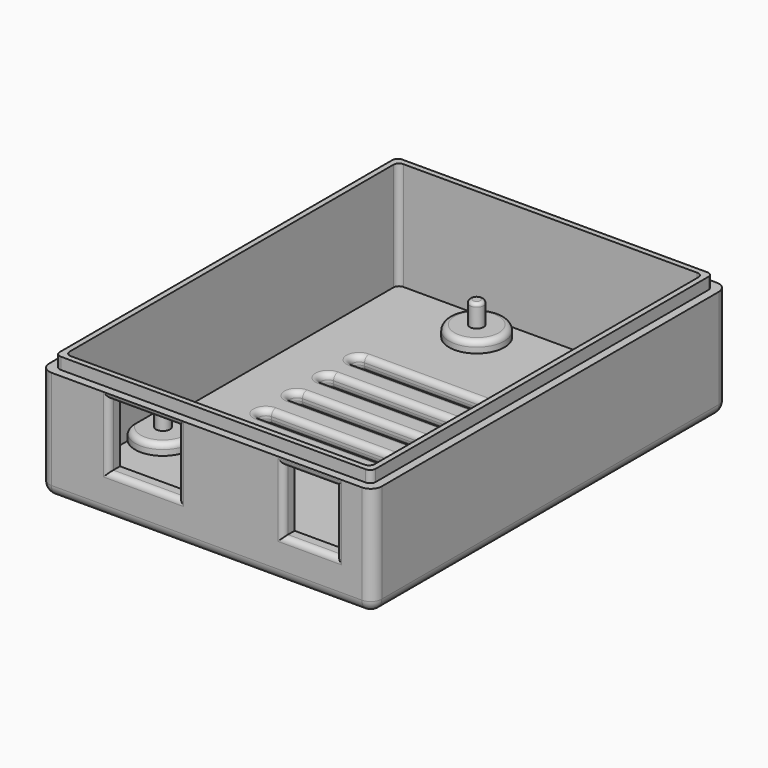
from build123d import *

# Parameters (mm, degrees)
SKETCH_W            = 60
SKETCH_H            = 80
PAD_DEPTH           = 2.5
SKETCH001_W         = 60
SKETCH001_H         = 80
SKETCH001_W_2       = 55
SKETCH001_H_2       = 75
PAD001_DEPTH        = 19.5
SKETCH003_R         = 5
PAD002_DEPTH        = 2
SKETCH004_R         = 1.25
PAD003_DEPTH        = 4
SKETCH006_W         = 12.5
SKETCH006_H         = 11.5
POCKET_DEPTH        = 5
SKETCH007_W         = 9.5
SKETCH007_H         = 11.2
POCKET001_DEPTH     = 5
FILLET_R            = 2
FILLET001_R         = 2
FILLET002_R         = 0.6
FILLET003_R         = 1
FILLET004_R         = 1
SKETCH008_W         = 60
SKETCH008_H         = 80
SKETCH008_W_2       = 57
SKETCH008_H_2       = 77
POCKET002_DEPTH     = 2.1
FILLET005_R         = 1
POCKET003_DEPTH     = 5
LINEARPATTERN_COUNT = 5
LINEARPATTERN_PITCH = 7
FILLET006_R         = 1
SKETCH010_R         = 4.876618
PAD004_DEPTH        = 2
FILLET007_R         = 1


with BuildPart() as part:
    # Sketch → Pad (new body)
    with BuildSketch(Plane.XY):
        with Locations((30, 40)):
            Rectangle(SKETCH_W, SKETCH_H)
    extrude(amount=PAD_DEPTH)

    # Sketch001 (on Face6 of Pad) → Pad001 (join)
    with BuildSketch(Plane.XY.offset(2.5)):
        with Locations((30, 40)):
            Rectangle(SKETCH001_W, SKETCH001_H)
        with Locations((30, 40)):
            Rectangle(SKETCH001_W_2, SKETCH001_H_2, mode=Mode.SUBTRACT)
    extrude(amount=PAD001_DEPTH)

    # Sketch003 (on Face8 of Pad001) → Pad002 (join)
    with BuildSketch(Plane.XY.offset(2.5)):
        with Locations((21.125, 72)):
            Circle(SKETCH003_R)
        with Locations((48.625, 72)):
            Circle(SKETCH003_R)
        with Locations((6.125, 20)):
            Circle(SKETCH003_R)
        with Locations((53.875, 21)):
            Circle(SKETCH003_R)
    extrude(amount=PAD002_DEPTH)

    # Sketch004 (on Face17 of Pad002) → Pad003 (join)
    with BuildSketch(Plane.XY.offset(4.5)):
        with Locations((21.125, 72)):
            Circle(SKETCH004_R)
        with Locations((6.125, 20)):
            Circle(SKETCH004_R)
        with Locations((53.875, 21)):
            Circle(SKETCH004_R)
        with Locations((48.625, 72)):
            Circle(SKETCH004_R)
    extrude(amount=PAD003_DEPTH)

    # Sketch006 (on Face8 of Pad003) → Pocket (cut)
    with BuildSketch(Plane(origin=(0, 2.5, 0), x_dir=(-1, 0, 0), z_dir=(0, 1, 0))):
        with Locations((-18.625, 13.15)):
            Rectangle(SKETCH006_W, SKETCH006_H)
    extrude(amount=-POCKET_DEPTH, mode=Mode.SUBTRACT)

    # Sketch007 (on Face2 of Pocket) → Pocket001 (cut)
    with BuildSketch(Plane.XZ):
        with Locations((48.625, 13)):
            Rectangle(SKETCH007_W, SKETCH007_H)
    extrude(amount=-POCKET001_DEPTH, mode=Mode.SUBTRACT)

    # Fillet
    fillet_edges = [part.edges().sort_by_distance(p)[0] for p in [
        (60, 0, 11),
        (0, 0, 11),
        (60, 80, 11),
        (0, 80, 11),
    ]]
    fillet(fillet_edges, radius=FILLET_R)

    # Fillet001
    fillet001_edges = [part.edges().sort_by_distance(p)[0] for p in [
        (60, 40, 0),
        (30, 0, 0),
        (59.414214, 0.585786, 0),
        (0, 40, 0),
        (30, 80, 0),
        (0.585786, 0.585786, 0),
        (0.585786, 79.414214, 0),
        (59.414214, 79.414214, 0),
    ]]
    fillet(fillet001_edges, radius=FILLET001_R)

    # Fillet002
    fillet002_edges = [part.edges().sort_by_distance(p)[0] for p in [
        (4.875, 20, 8.5),
        (19.875, 72, 8.5),
        (47.375, 72, 8.5),
        (52.625, 21, 8.5),
    ]]
    fillet(fillet002_edges, radius=FILLET002_R)

    # Fillet003
    fillet003_edges = [part.edges().sort_by_distance(p)[0] for p in [
        (7.97905, 15.356456, 4.5),
        (7.97905, 24.643544, 4.5),
        (48.875, 21, 4.5),
        (16.125, 72, 4.5),
        (43.625, 72, 4.5),
    ]]
    fillet(fillet003_edges, radius=FILLET003_R)

    # Fillet004
    fillet004_edges = [part.edges().sort_by_distance(p)[0] for p in [
        (12.375, 0, 13.15),
        (18.625, 0, 18.9),
        (24.875, 0, 13.15),
        (18.625, 0, 7.4),
        (43.875, 0, 13),
        (48.625, 0, 18.6),
        (53.375, 0, 13),
        (48.625, 0, 7.4),
    ]]
    fillet(fillet004_edges, radius=FILLET004_R)

    # Sketch008 (on Face8 of Fillet004) → Pocket002 (cut)
    with BuildSketch(Plane.XY.offset(22)):
        with Locations((30, 40)):
            Rectangle(SKETCH008_W, SKETCH008_H)
        with Locations((30, 40)):
            Rectangle(SKETCH008_W_2, SKETCH008_H_2, mode=Mode.SUBTRACT)
    extrude(amount=-POCKET002_DEPTH, mode=Mode.SUBTRACT)

    # Fillet005
    fillet005_edges = [part.edges().sort_by_distance(p)[0] for p in [
        (58.5, 78.5, 20.95),
        (58.5, 1.5, 20.95),
        (1.5, 1.5, 20.95),
        (2.5, 77.5, 12.25),
        (1.5, 78.5, 20.95),
        (57.5, 2.5, 12.25),
        (2.5, 2.5, 12.25),
        (57.5, 77.5, 12.25),
    ]]
    fillet(fillet005_edges, radius=FILLET005_R)

    # Sketch009 (on Face52 of PolarPattern) → Pocket003 (cut)
    with BuildSketch(Plane.XY.offset(2.5)):
        with BuildLine():
            ThreePointArc((12.5, 57.5), (11.25, 56.25), (12.5, 55))
            Line((12.5, 55), (47.5, 55))
            ThreePointArc((47.5, 55), (48.75, 56.25), (47.5, 57.5))
            Line((12.5, 57.5), (47.5, 57.5))
        make_face()
    pocket003 = extrude(amount=-POCKET003_DEPTH, mode=Mode.SUBTRACT)

    # LinearPattern: Pocket003 ×5
    with Locations(*[(0, -i * LINEARPATTERN_PITCH, 0) for i in range(1, LINEARPATTERN_COUNT)]):
        add(pocket003, mode=Mode.SUBTRACT)

    # Fillet006
    fillet006_edges = [part.edges().sort_by_distance(p)[0] for p in [
        (30, 27, 0),
        (30, 29.5, 0),
        (48.75, 28.25, 0),
        (11.25, 28.25, 0),
        (30, 34, 0),
        (48.75, 35.25, 0),
        (30, 36.5, 0),
        (11.25, 35.25, 0),
        (30, 43.5, 0),
        (48.75, 42.25, 0),
        (11.25, 42.25, 0),
        (30, 50.5, 0),
        (48.75, 49.25, 0),
        (30, 48, 0),
        (11.25, 49.25, 0),
        (30, 41, 0),
        (30, 55, 0),
        (30, 57.5, 0),
        (48.75, 56.25, 0),
        (11.25, 56.25, 0),
        (30, 27, 2.5),
        (30, 29.5, 2.5),
        (11.25, 28.25, 2.5),
        (48.75, 28.25, 2.5),
        (48.75, 35.25, 2.5),
        (30, 36.5, 2.5),
        (30, 34, 2.5),
        (11.25, 35.25, 2.5),
        (30, 41, 2.5),
        (11.25, 42.25, 2.5),
        (30, 43.5, 2.5),
        (48.75, 42.25, 2.5),
        (30, 48, 2.5),
        (30, 50.5, 2.5),
        (48.75, 49.25, 2.5),
        (11.25, 49.25, 2.5),
        (30, 55, 2.5),
        (11.25, 56.25, 2.5),
        (30, 57.5, 2.5),
        (48.75, 56.25, 2.5),
    ]]
    fillet(fillet006_edges, radius=FILLET006_R)

    # Sketch010 (on Face1 of Fillet006) → Pad004 (join)
    with BuildSketch(Plane(origin=(0, 0, 0), x_dir=(1, 0, 0), z_dir=(0, 0, -1))):
        with Locations((9.5, -9.5)):
            Circle(SKETCH010_R)
        with Locations((50.5, -9.5)):
            Circle(SKETCH010_R)
        with Locations((50.5, -70.5)):
            Circle(SKETCH010_R)
        with Locations((9.5, -70.5)):
            Circle(SKETCH010_R)
    extrude(amount=PAD004_DEPTH)

    # Fillet007
    fillet007_edges = [part.edges().sort_by_distance(p)[0] for p in [
        (4.623382, 9.5, -2),
        (45.623382, 9.5, -2),
        (45.623382, 70.5, -2),
        (4.623382, 70.5, -2),
    ]]
    fillet(fillet007_edges, radius=FILLET007_R)


solid = part.part
